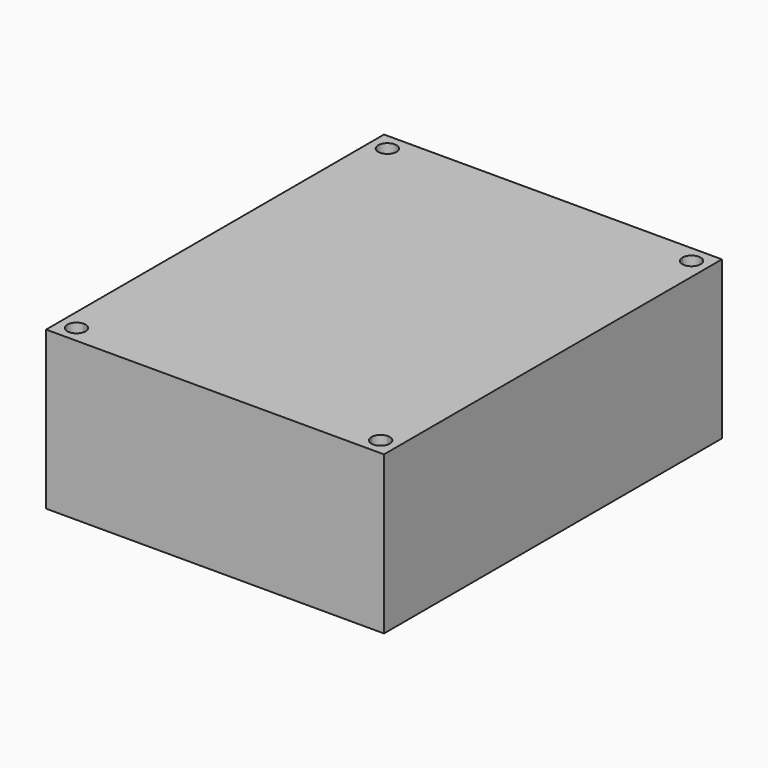
from build123d import *

# Parameters (mm, degrees)
F0_W     = 120
F0_H     = 150
F1_DEPTH = 56
F3_DEPTH = 67.5


with BuildPart() as f1:
    # F0 (on Top) → F1 (new body)
    with BuildSketch(Plane.XY):
        Rectangle(F0_W, F0_H)
    extrude(amount=F1_DEPTH)

    # F2 (on face) → F3 (cut)
    with BuildSketch(Plane.XY.offset(56)):
        with BuildLine():
            Line((-54, 65.75), (-54, 69))
            Line((-54, 69), (-50.75, 69))
            ThreePointArc((-50.75, 69), (-56.298097, 71.298097), (-54, 65.75))
        make_face()
        with BuildLine():
            Line((-50.75, 69), (-54, 69))
            Line((-54, 69), (-54, 65.75))
            ThreePointArc((-54, 65.75), (-51.701903, 66.701903), (-50.75, 69))
        make_face()
        with BuildLine():
            ThreePointArc((57.25, 69), (54, 72.25), (50.75, 69))
            Line((50.75, 69), (54, 69))
            Line((54, 69), (54, 65.75))
            ThreePointArc((54, 65.75), (56.298097, 66.701903), (57.25, 69))
        make_face()
        with BuildLine():
            Line((54, 69), (50.75, 69))
            ThreePointArc((50.75, 69), (51.701903, 66.701903), (54, 65.75))
            Line((54, 65.75), (54, 69))
        make_face()
        with BuildLine():
            Line((-54, -69), (-54, -65.75))
            ThreePointArc((-54, -65.75), (-56.298097, -71.298097), (-50.75, -69))
            Line((-50.75, -69), (-54, -69))
        make_face()
        with BuildLine():
            ThreePointArc((-50.75, -69), (-51.701903, -66.701903), (-54, -65.75))
            Line((-54, -65.75), (-54, -69))
            Line((-54, -69), (-50.75, -69))
        make_face()
        with BuildLine():
            ThreePointArc((57.25, -69), (56.298097, -66.701903), (54, -65.75))
            Line((54, -65.75), (54, -69))
            Line((54, -69), (50.75, -69))
            ThreePointArc((50.75, -69), (54, -72.25), (57.25, -69))
        make_face()
        with BuildLine():
            Line((54, -69), (54, -65.75))
            ThreePointArc((54, -65.75), (51.701903, -66.701903), (50.75, -69))
            Line((50.75, -69), (54, -69))
        make_face()
    extrude(amount=-F3_DEPTH, mode=Mode.SUBTRACT)


solid = f1.part
